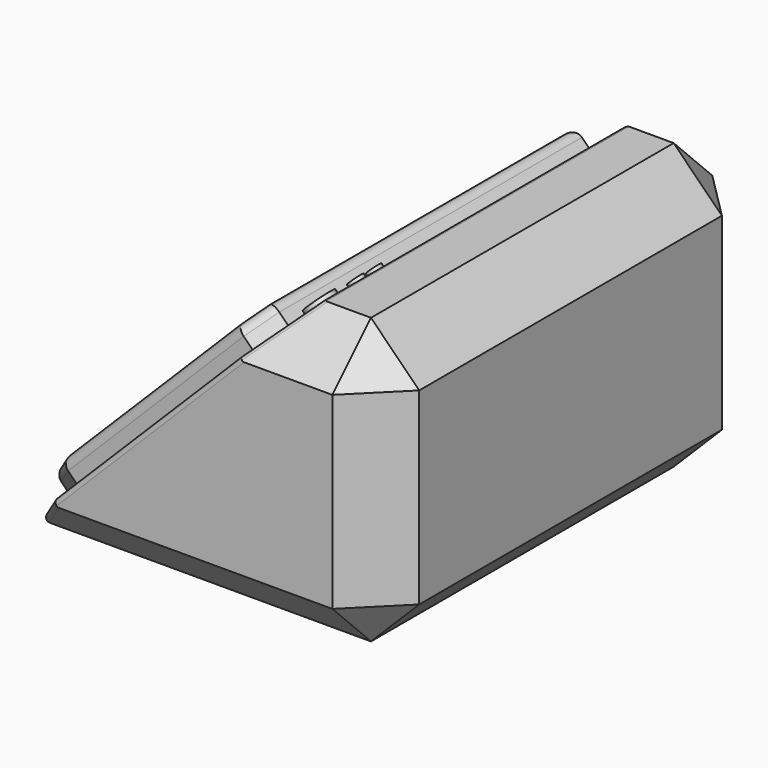
from build123d import *

# Parameters (mm, degrees)
F1_DEPTH = 50
F3_DEPTH = 2.5
F4_R     = 1
F5_R     = 1.6151714505
F5_R_2   = 0.8396882265
F5_R_3   = 0.796597451
F6_DEPTH = 0.5
F7_SIZE  = 5.08
F8_R     = 0.5


with BuildPart() as f1:
    # F0 (on Front) → F1 (new body)
    with BuildSketch(Plane.XZ):
        Polygon((3.6212546234, 51.0512575135), (-26.3787453766, 21.0512575135), (13.6212546234, 21.0512575135), (13.6212546234, 51.0512575135), align=None)
    extrude(amount=F1_DEPTH)

    # F2 (on face) → F3 (join)
    with BuildSketch(Plane(origin=(-23.715001445, 0, 23.715001445), x_dir=(0.7071067812, 0, 0.7071067812), z_dir=(-0.7071067812, 0, 0.7071067812))):
        Polygon((30.521587444, -47), (33.4631516538, -44.92), (33.4631516538, -5.08), (30.521587444, -3), (4.3706138377, -3), (-0.7671027947, -6.6329142706), (-0.7671027947, -43.3670857294), (4.3706138377, -47), align=None)
    extrude(amount=F3_DEPTH)

    # F4
    f4_edges = [f1.edges().sort_by_distance(p)[0] for p in [
        (-13.146512, -3, 37.819024),
        (-2.860747, -45.96, 48.10479),
        (-1.820747, -25, 49.14479),
        (-2.860747, -4.04, 48.10479),
        (-24.208735, -4.816457, 26.756802),
        (-26.025192, -25, 24.940345),
        (-24.208735, -45.183543, 26.756802),
        (-13.146512, -47, 37.819024),
    ]]
    fillet(f4_edges, radius=F4_R)

    # F5 (on face) → F6 (join)
    with BuildSketch(Plane(origin=(-23.715001445, 0, 23.715001445), x_dir=(0.7071067812, 0, 0.7071067812), z_dir=(-0.7071067812, 0, 0.7071067812))):
        with Locations((36.0333621502, -42.8570471704)):
            Circle(F5_R)
        with Locations((36.0333621502, -38.0774661899)):
            Circle(F5_R_2)
        with Locations((36.0272766753, -35.6876738369)):
            Circle(F5_R_3)
    extrude(amount=F6_DEPTH)

    # F7
    f7_edges = [f1.edges().sort_by_distance(p)[0] for p in [
        (-6.378745, 0, 21.051258),
        (-6.378745, -50, 21.051258),
        (8.621255, -50, 51.051258),
        (13.621255, -50, 36.051258),
        (13.621255, -25, 51.051258),
        (8.621255, 0, 51.051258),
        (13.621255, 0, 36.051258),
        (13.621255, -25, 21.051258),
    ]]
    chamfer(f7_edges, length=F7_SIZE)

    # F8
    f8_edges = [f1.edges().sort_by_distance(p)[0] for p in [
        (-26.378745, -25, 21.051258),
        (-23.838745, -2.54, 23.591258),
        (-11.378745, 0, 36.051258),
        (-23.838745, -47.46, 23.591258),
        (-11.378745, -50, 36.051258),
        (1.081255, -47.46, 48.511258),
        (3.621255, -25, 51.051258),
        (1.081255, -2.54, 48.511258),
    ]]
    fillet(f8_edges, radius=F8_R)


solid = f1.part
